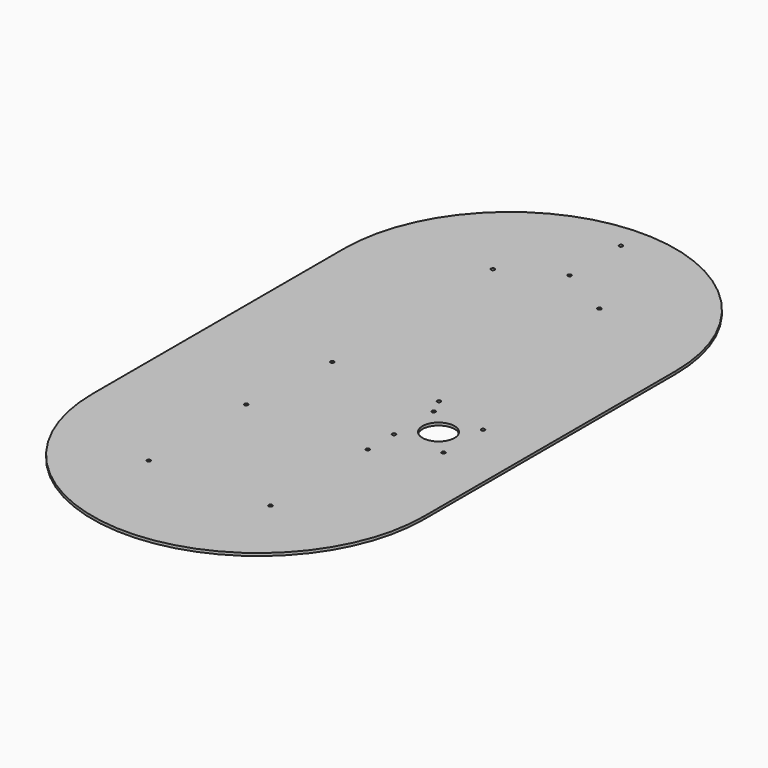
from build123d import *

# Parameters (mm, degrees)
F0_R     = 2.15265
F0_R_2   = 19.05
F1_DEPTH = 3.175


with BuildPart() as f1:
    # F0 (on Top) → F1 (new body)
    with BuildSketch(Plane.XY):
        with BuildLine():
            ThreePointArc((393.7, 0), (196.85, 196.85), (0, 0))
            Line((0, 0), (0, -373.085176))
            ThreePointArc((0, -373.085176), (196.85, -569.935176), (393.7, -373.085176))
            Line((393.7, -373.085176), (393.7, 0))
        make_face()
        with Locations((124.61875, -445.316426)):
            Circle(F0_R, mode=Mode.SUBTRACT)
        with Locations((124.61875, -300.853926)):
            Circle(F0_R, mode=Mode.SUBTRACT)
        with Locations((269.08125, -445.316426)):
            Circle(F0_R, mode=Mode.SUBTRACT)
        with Locations((269.08125, -300.853926)):
            Circle(F0_R, mode=Mode.SUBTRACT)
        with Locations((269.08125, -261.9375)):
            Circle(F0_R, mode=Mode.SUBTRACT)
        with Locations((269.08125, -203.2)):
            Circle(F0_R, mode=Mode.SUBTRACT)
        with Locations((327.81875, -261.9375)):
            Circle(F0_R, mode=Mode.SUBTRACT)
        with Locations((298.45, -232.56875)):
            Circle(F0_R_2, mode=Mode.SUBTRACT)
        with Locations((327.81875, -203.2)):
            Circle(F0_R, mode=Mode.SUBTRACT)
        with Locations((133.547731, -184.255246)):
            Circle(F0_R, mode=Mode.SUBTRACT)
        with Locations((133.547731, 54.080246)):
            Circle(F0_R, mode=Mode.SUBTRACT)
        with Locations((260.152269, -184.255246)):
            Circle(F0_R, mode=Mode.SUBTRACT)
        with Locations((196.85, 88.9)):
            Circle(F0_R, mode=Mode.SUBTRACT)
        with Locations((260.152269, 54.080246)):
            Circle(F0_R, mode=Mode.SUBTRACT)
        with Locations((196.85, 165.1)):
            Circle(F0_R, mode=Mode.SUBTRACT)
    extrude(amount=F1_DEPTH)


solid = f1.part
